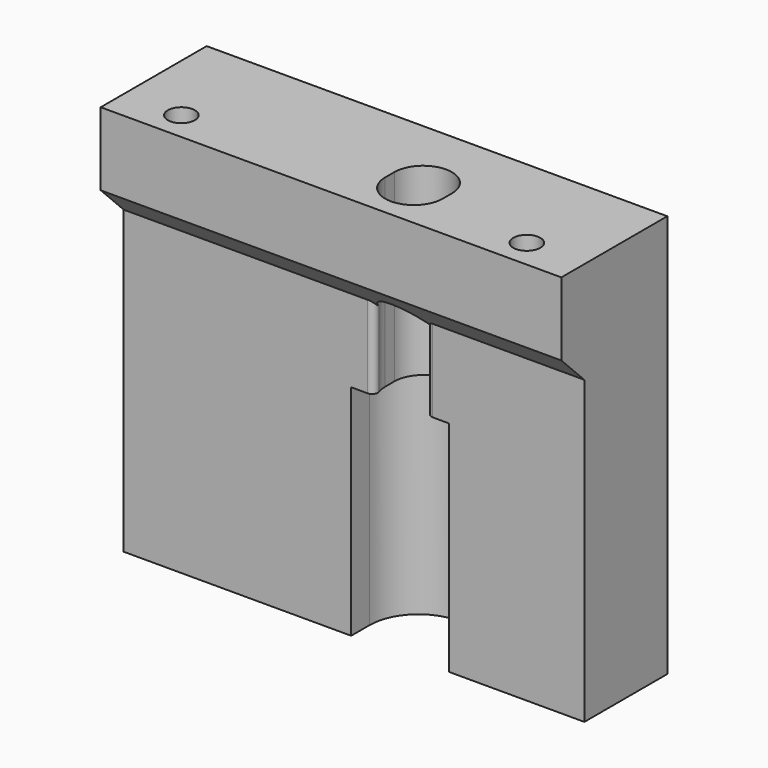
from build123d import *

# Parameters (mm, degrees)
PAD008_DEPTH    = 40
POCKET019_DEPTH = 38
SKETCH042_R     = 2.35
POCKET020_DEPTH = 10
SKETCH044_R     = 1.4
POCKET023_DEPTH = 11
POCKET024_DEPTH = 52
FILLET001_R     = 1


with BuildPart() as part:
    # Sketch039 → Pad008 (new body, symmetric)
    with BuildSketch(Plane.YZ):
        Polygon((0, 70), (23, 70), (23, 0), (5, 0), (5, 52.3), (0, 57.3), align=None)
    extrude(amount=PAD008_DEPTH, both=True)

    # Sketch035 (on Face3 of Pad008) → Pocket019 (cut)
    with BuildSketch(Plane.YX):
        with BuildLine():
            ThreePointArc((-8.818597, 16.5), (-17.318597, 8), (-8.818597, -0.5))
            Line((-8.818597, -0.5), (9, -0.5))
            ThreePointArc((9, -0.5), (17.5, 8), (9, 16.5))
            Line((-8.818597, 16.5), (9, 16.5))
        make_face()
    extrude(amount=-POCKET019_DEPTH, mode=Mode.SUBTRACT)

    # Sketch042 (on Face1 of Pocket019) → Pocket020 (cut)
    with BuildSketch(Plane(origin=(0, 0, 70), x_dir=(0, -1, 0), z_dir=(0, 0, 1))):
        with Locations((-5, 30)):
            Circle(SKETCH042_R)
        with Locations((-5, -30)):
            Circle(SKETCH042_R)
    extrude(amount=-POCKET020_DEPTH, mode=Mode.SUBTRACT)

    # Sketch044 (on Face10 of Pocket020) → Pocket023 (cut)
    with BuildSketch(Plane(origin=(0, 5, 0), x_dir=(0, 0, -1), z_dir=(0, -1, 0))):
        with Locations((13, 30)):
            Circle(SKETCH044_R)
        with Locations((13, -30)):
            Circle(SKETCH044_R)
    extrude(amount=-POCKET023_DEPTH, mode=Mode.SUBTRACT)

    # Sketch048 (on Face12 of Pocket019) → Pocket024 (cut)
    with BuildSketch(Plane.YX.offset(-38)):
        with BuildLine():
            ThreePointArc((8, 13), (3, 8), (8, 3))
            Line((8, 3), (10, 3))
            ThreePointArc((10, 3), (15, 8), (10, 13))
            Line((8, 13), (10, 13))
        make_face()
    extrude(amount=-POCKET024_DEPTH, mode=Mode.SUBTRACT)

    # Fillet001
    fillet001_edges = [part.edges().sort_by_distance(p)[0] for p in [
        (12, 5, 45.15),
        (4, 5, 45.15),
    ]]
    fillet(fillet001_edges, radius=FILLET001_R)


solid = part.part
